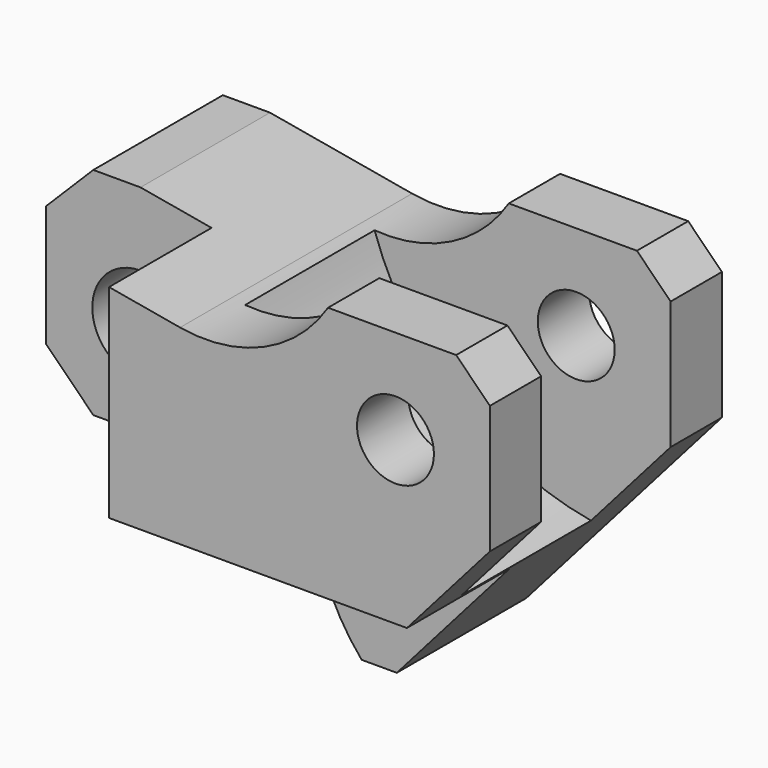
from build123d import *

# Parameters (mm, degrees)
F1_DEPTH = 21.5
F3_DEPTH = 19
F4_R     = 41
F5_DEPTH = 12
F6_R     = 5.7
F7_DEPTH = 43.001
F8_R     = 7.15
F9_DEPTH = 24.001


with BuildPart() as f1:
    # F0 (on Front) → F1 (new body, symmetric)
    with BuildSketch(Plane.XZ):
        with BuildLine():
            Line((-51.2549763874, 7), (-44.2549763874, 0))
            Line((-44.2549763874, 0), (-16.1883501321, 0))
            ThreePointArc((-16.1883501321, 0), (-12.923114351, -1.2134137678), (-11.2427113907, -4.2647058824))
            ThreePointArc((-11.2427113907, -4.2647058824), (-8.9058811875, -12.115672061), (-4.4669089907, -19))
            Line((-4.4669089907, -19), (0.7450236126, -19))
            Line((0.7450236126, -19), (29.7450236126, 14))
            Line((29.7450236126, 14), (29.7450236126, 33))
            Line((29.7450236126, 33), (24.7450236126, 38))
            Line((24.7450236126, 38), (5.7450236126, 38))
            ThreePointArc((5.7450236126, 38), (-3.7417667266, 29.8014254338), (-16.1883501321, 28.2853853987))
            Line((-16.1883501321, 28.2853853987), (-37.2549763874, 32))
            Line((-37.2549763874, 32), (-44.2549763874, 32))
            Line((-44.2549763874, 32), (-51.2549763874, 25))
            Line((-51.2549763874, 25), (-51.2549763874, 7))
        make_face()
    extrude(amount=F1_DEPTH, both=True)

    # F2 (on face) → F3 (cut)
    with BuildSketch(Plane.XZ.offset(21.5)):
        Polygon((-26.7216632598, 0), (-26.7216632598, 30.1426926993), (-37.2549763874, 32), (-44.2549763874, 32), (-51.2549763874, 25), (-51.2549763874, 7), (-44.2549763874, 0), align=None)
        with BuildLine():
            Line((17.4419933095, 0), (-16.1883501321, 0))
            ThreePointArc((-16.1883501321, 0), (-12.923114351, -1.2134137678), (-11.2427113907, -4.2647058824))
            ThreePointArc((-11.2427113907, -4.2647058824), (-8.9058811875, -12.115672061), (-4.4669089907, -19))
            Line((-4.4669089907, -19), (0.7450236126, -19))
            Line((0.7450236126, -19), (17.4419933095, 0))
        make_face()
    extrude(amount=-F3_DEPTH, mode=Mode.SUBTRACT)

    # F4 (on Front) → F5 (cut, symmetric)
    with BuildSketch(Plane.XZ):
        with Locations((24.7450236126, 41)):
            Circle(F4_R)
    extrude(amount=F5_DEPTH, both=True, mode=Mode.SUBTRACT)

    # F6 (on face) → F7 (cut, through all)
    with BuildSketch(Plane.XZ.offset(21.5)):
        with Locations((15.7450236126, 24)):
            Circle(F6_R)
    extrude(amount=-F7_DEPTH, mode=Mode.SUBTRACT)

    # F8 (on face) → F9 (cut, through all)
    with BuildSketch(Plane.XZ.offset(2.5)):
        with Locations((-37.2549763874, 14)):
            Circle(F8_R)
    extrude(amount=-F9_DEPTH, mode=Mode.SUBTRACT)


solid = f1.part
